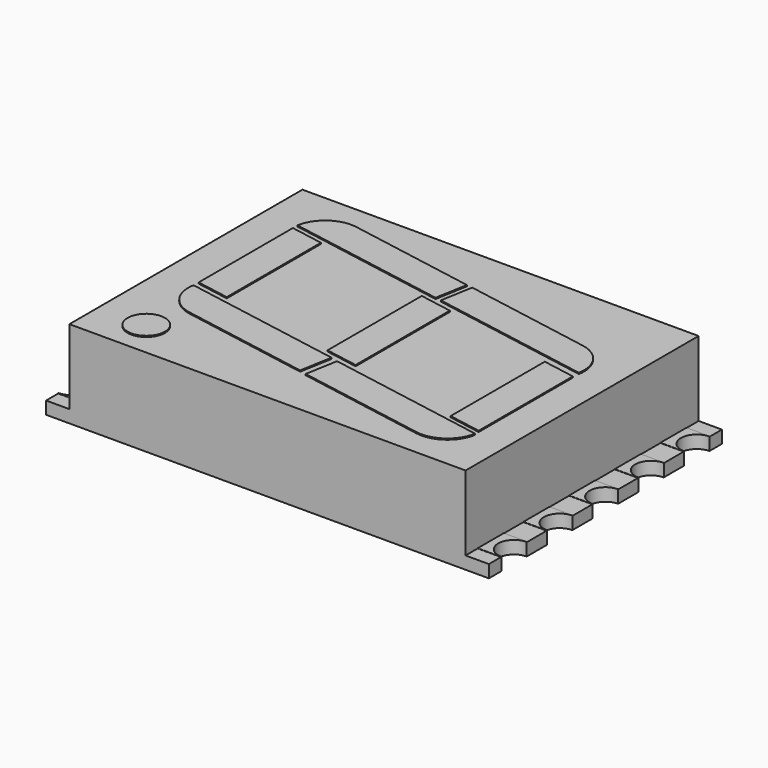
from build123d import *

# Parameters (mm, degrees)
BOX007_W               = 0.8
BOX007_H               = 1.5
BOX007_DEPTH           = 0.6
CYLINDER001_R          = 0.68
CYLINDER001_DEPTH      = 0.6
CYLINDER_R             = 0.7
CYLINDER_DEPTH         = 0.5
BOX006_W               = 1
BOX006_H               = 1.4
BOX006_DEPTH           = 0.05
BOX009_W               = 0.8
BOX009_H               = 1.5
BOX009_DEPTH           = 0.6
CYLINDER003_R          = 0.68
CYLINDER003_DEPTH      = 0.6
CYLINDER002_R          = 0.7
CYLINDER002_DEPTH      = 0.5
BOX008_W               = 1
BOX008_H               = 1.4
BOX008_DEPTH           = 0.05
BOX011_W               = 0.8
BOX011_H               = 1.5
BOX011_DEPTH           = 0.6
CYLINDER005_R          = 0.68
CYLINDER005_DEPTH      = 0.6
CYLINDER004_R          = 0.7
CYLINDER004_DEPTH      = 0.5
BOX010_W               = 1
BOX010_H               = 1.4
BOX010_DEPTH           = 0.05
BOX013_W               = 0.8
BOX013_H               = 1.5
BOX013_DEPTH           = 0.6
CYLINDER007_R          = 0.68
CYLINDER007_DEPTH      = 0.6
CYLINDER006_R          = 0.7
CYLINDER006_DEPTH      = 0.5
BOX012_W               = 1
BOX012_H               = 1.4
BOX012_DEPTH           = 0.05
BOX015_W               = 0.8
BOX015_H               = 1.5
BOX015_DEPTH           = 0.6
CYLINDER009_R          = 0.68
CYLINDER009_DEPTH      = 0.6
CYLINDER008_R          = 0.7
CYLINDER008_DEPTH      = 0.5
BOX014_W               = 1
BOX014_H               = 1.4
BOX014_DEPTH           = 0.05
BOX024_W               = 0.8
BOX024_H               = 1.5
BOX024_DEPTH           = 0.6
CYLINDER011_R          = 0.68
CYLINDER011_DEPTH      = 0.6
CYLINDER010_R          = 0.7
CYLINDER010_DEPTH      = 0.5
BOX023_W               = 1
BOX023_H               = 1.4
BOX023_DEPTH           = 0.05
CUT011_PLACEMENT_ANGLE = 180
BOX026_W               = 0.8
BOX026_H               = 1.5
BOX026_DEPTH           = 0.6
CYLINDER013_R          = 0.68
CYLINDER013_DEPTH      = 0.6
CYLINDER012_R          = 0.7
CYLINDER012_DEPTH      = 0.5
BOX025_W               = 1
BOX025_H               = 1.4
BOX025_DEPTH           = 0.05
CUT013_PLACEMENT_ANGLE = 180
BOX028_W               = 0.8
BOX028_H               = 1.5
BOX028_DEPTH           = 0.6
CYLINDER015_R          = 0.68
CYLINDER015_DEPTH      = 0.6
CYLINDER014_R          = 0.7
CYLINDER014_DEPTH      = 0.5
BOX027_W               = 1
BOX027_H               = 1.4
BOX027_DEPTH           = 0.05
CUT015_PLACEMENT_ANGLE = 180
BOX030_W               = 0.8
BOX030_H               = 1.5
BOX030_DEPTH           = 0.6
CYLINDER017_R          = 0.68
CYLINDER017_DEPTH      = 0.6
CYLINDER016_R          = 0.7
CYLINDER016_DEPTH      = 0.5
BOX029_W               = 1
BOX029_H               = 1.4
BOX029_DEPTH           = 0.05
CUT017_PLACEMENT_ANGLE = 180
BOX032_W               = 0.8
BOX032_H               = 1.5
BOX032_DEPTH           = 0.6
CYLINDER019_R          = 0.68
CYLINDER019_DEPTH      = 0.6
CYLINDER018_R          = 0.7
CYLINDER018_DEPTH      = 0.5
BOX031_W               = 1
BOX031_H               = 1.4
BOX031_DEPTH           = 0.05
CUT019_PLACEMENT_ANGLE = 180
CYLINDER020_R          = 0.8
CYLINDER020_DEPTH      = 1
BOX043_W               = 2
BOX043_H               = 2
BOX043_DEPTH           = 1
BOX043_PLACEMENT_ANGLE = -10
BOX042_W               = 2
BOX042_H               = 2
BOX042_DEPTH           = 1
BOX042_PLACEMENT_ANGLE = -10
BOX041_W               = 1.4
BOX041_H               = 5.3
BOX041_DEPTH           = 1
BOX046_W               = 2
BOX046_H               = 2
BOX046_DEPTH           = 1
BOX046_PLACEMENT_ANGLE = -10
BOX045_W               = 2
BOX045_H               = 2
BOX045_DEPTH           = 1
BOX045_PLACEMENT_ANGLE = -10
BOX044_W               = 1.4
BOX044_H               = 5.3
BOX044_DEPTH           = 1
BOX040_W               = 2
BOX040_H               = 2
BOX040_DEPTH           = 1
BOX040_PLACEMENT_ANGLE = -10
BOX039_W               = 2
BOX039_H               = 2
BOX039_DEPTH           = 1
BOX039_PLACEMENT_ANGLE = -10
BOX038_W               = 1.4
BOX038_H               = 5.3
BOX038_DEPTH           = 1
BOX035_W               = 7
BOX035_H               = 1.4
BOX035_DEPTH           = 1
BOX035_PLACEMENT_ANGLE = -10
FILLET001_R            = 1.39
BOX034_W               = 7
BOX034_H               = 1.4
BOX034_DEPTH           = 1
BOX034_PLACEMENT_ANGLE = -10
FILLET002_R            = 1.39
BOX037_W               = 7
BOX037_H               = 1.4
BOX037_DEPTH           = 1
BOX037_PLACEMENT_ANGLE = -10
FILLET003_R            = 1.39
BOX036_W               = 7
BOX036_H               = 1.4
BOX036_DEPTH           = 1
BOX036_PLACEMENT_ANGLE = -10
FILLET004_R            = 1.39
BOX047_W               = 1
BOX047_H               = 12.5
BOX047_DEPTH           = 3.25
BOX_W                  = 1
BOX_H                  = 12.5
BOX_DEPTH              = 3.25
PAD_DEPTH              = 3.75


with BuildPart() as kub007:
    # Box007 → Box007 (new body)
    with BuildSketch(Plane(origin=(-0.8, -0.75, 0), x_dir=(1, 0, 0), z_dir=(0, 0, 1))):
        with Locations((0.4, 0.75)):
            Rectangle(BOX007_W, BOX007_H)
    extrude(amount=BOX007_DEPTH)


with BuildPart() as cylinder001:
    # Cylinder001 → Cylinder001 (new body)
    with BuildSketch(Plane.XY):
        Circle(CYLINDER001_R)
    extrude(amount=CYLINDER001_DEPTH)


with BuildPart() as cylinder:
    # Cylinder → Cylinder (new body)
    with BuildSketch(Plane.XY):
        Circle(CYLINDER_R)
    extrude(amount=CYLINDER_DEPTH)


with BuildPart() as cut001:
    # Box006 → Box006 (new body)
    with BuildSketch(Plane(origin=(0, -0.7, 0.5), x_dir=(1, 0, 0), z_dir=(0, 0, 1))):
        with Locations((0.5, 0.7)):
            Rectangle(BOX006_W, BOX006_H)
    extrude(amount=BOX006_DEPTH)

    # Fusion: union Cylinder
    add(cylinder.part)

    # Cut: cut Cylinder001
    add(cylinder001.part, mode=Mode.SUBTRACT)

    # Cut001: cut Kub007
    add(kub007.part, mode=Mode.SUBTRACT)


with BuildPart() as kub009:
    # Box009 → Box009 (new body)
    with BuildSketch(Plane(origin=(-0.8, -0.75, 0), x_dir=(1, 0, 0), z_dir=(0, 0, 1))):
        with Locations((0.4, 0.75)):
            Rectangle(BOX009_W, BOX009_H)
    extrude(amount=BOX009_DEPTH)


with BuildPart() as cylinder003:
    # Cylinder003 → Cylinder003 (new body)
    with BuildSketch(Plane.XY):
        Circle(CYLINDER003_R)
    extrude(amount=CYLINDER003_DEPTH)


with BuildPart() as cylinder002:
    # Cylinder002 → Cylinder002 (new body)
    with BuildSketch(Plane.XY):
        Circle(CYLINDER002_R)
    extrude(amount=CYLINDER002_DEPTH)


with BuildPart() as cut003:
    # Box008 → Box008 (new body)
    with BuildSketch(Plane(origin=(0, -0.7, 0.5), x_dir=(1, 0, 0), z_dir=(0, 0, 1))):
        with Locations((0.5, 0.7)):
            Rectangle(BOX008_W, BOX008_H)
    extrude(amount=BOX008_DEPTH)

    # Fusion001: union Cylinder002
    add(cylinder002.part)

    # Cut002: cut Cylinder003
    add(cylinder003.part, mode=Mode.SUBTRACT)

    # Cut003: cut Kub009
    add(kub009.part, mode=Mode.SUBTRACT)


with BuildPart() as cut003_1:
    # Cut003 placement: moved
    add(cut003.part.moved(Location((0, -2.45, 0))))


with BuildPart() as kub011:
    # Box011 → Box011 (new body)
    with BuildSketch(Plane(origin=(-0.8, -0.75, 0), x_dir=(1, 0, 0), z_dir=(0, 0, 1))):
        with Locations((0.4, 0.75)):
            Rectangle(BOX011_W, BOX011_H)
    extrude(amount=BOX011_DEPTH)


with BuildPart() as cylinder005:
    # Cylinder005 → Cylinder005 (new body)
    with BuildSketch(Plane.XY):
        Circle(CYLINDER005_R)
    extrude(amount=CYLINDER005_DEPTH)


with BuildPart() as cylinder004:
    # Cylinder004 → Cylinder004 (new body)
    with BuildSketch(Plane.XY):
        Circle(CYLINDER004_R)
    extrude(amount=CYLINDER004_DEPTH)


with BuildPart() as cut005:
    # Box010 → Box010 (new body)
    with BuildSketch(Plane(origin=(0, -0.7, 0.5), x_dir=(1, 0, 0), z_dir=(0, 0, 1))):
        with Locations((0.5, 0.7)):
            Rectangle(BOX010_W, BOX010_H)
    extrude(amount=BOX010_DEPTH)

    # Fusion002: union Cylinder004
    add(cylinder004.part)

    # Cut004: cut Cylinder005
    add(cylinder005.part, mode=Mode.SUBTRACT)

    # Cut005: cut Kub011
    add(kub011.part, mode=Mode.SUBTRACT)


with BuildPart() as cut005_1:
    # Cut005 placement: moved
    add(cut005.part.moved(Location((0, -4.9, 0))))


with BuildPart() as kub013:
    # Box013 → Box013 (new body)
    with BuildSketch(Plane(origin=(-0.8, -0.75, 0), x_dir=(1, 0, 0), z_dir=(0, 0, 1))):
        with Locations((0.4, 0.75)):
            Rectangle(BOX013_W, BOX013_H)
    extrude(amount=BOX013_DEPTH)


with BuildPart() as cylinder007:
    # Cylinder007 → Cylinder007 (new body)
    with BuildSketch(Plane.XY):
        Circle(CYLINDER007_R)
    extrude(amount=CYLINDER007_DEPTH)


with BuildPart() as cylinder006:
    # Cylinder006 → Cylinder006 (new body)
    with BuildSketch(Plane.XY):
        Circle(CYLINDER006_R)
    extrude(amount=CYLINDER006_DEPTH)


with BuildPart() as cut007:
    # Box012 → Box012 (new body)
    with BuildSketch(Plane(origin=(0, -0.7, 0.5), x_dir=(1, 0, 0), z_dir=(0, 0, 1))):
        with Locations((0.5, 0.7)):
            Rectangle(BOX012_W, BOX012_H)
    extrude(amount=BOX012_DEPTH)

    # Fusion003: union Cylinder006
    add(cylinder006.part)

    # Cut006: cut Cylinder007
    add(cylinder007.part, mode=Mode.SUBTRACT)

    # Cut007: cut Kub013
    add(kub013.part, mode=Mode.SUBTRACT)


with BuildPart() as cut007_1:
    # Cut007 placement: moved
    add(cut007.part.moved(Location((0, -7.35, 0))))


with BuildPart() as kub015:
    # Box015 → Box015 (new body)
    with BuildSketch(Plane(origin=(-0.8, -0.75, 0), x_dir=(1, 0, 0), z_dir=(0, 0, 1))):
        with Locations((0.4, 0.75)):
            Rectangle(BOX015_W, BOX015_H)
    extrude(amount=BOX015_DEPTH)


with BuildPart() as cylinder009:
    # Cylinder009 → Cylinder009 (new body)
    with BuildSketch(Plane.XY):
        Circle(CYLINDER009_R)
    extrude(amount=CYLINDER009_DEPTH)


with BuildPart() as cylinder008:
    # Cylinder008 → Cylinder008 (new body)
    with BuildSketch(Plane.XY):
        Circle(CYLINDER008_R)
    extrude(amount=CYLINDER008_DEPTH)


with BuildPart() as cut009:
    # Box014 → Box014 (new body)
    with BuildSketch(Plane(origin=(0, -0.7, 0.5), x_dir=(1, 0, 0), z_dir=(0, 0, 1))):
        with Locations((0.5, 0.7)):
            Rectangle(BOX014_W, BOX014_H)
    extrude(amount=BOX014_DEPTH)

    # Fusion004: union Cylinder008
    add(cylinder008.part)

    # Cut008: cut Cylinder009
    add(cylinder009.part, mode=Mode.SUBTRACT)

    # Cut009: cut Kub015
    add(kub015.part, mode=Mode.SUBTRACT)


with BuildPart() as cut009_1:
    # Cut009 placement: moved
    add(cut009.part.moved(Location((0, -9.8, 0))))


with BuildPart() as kub024:
    # Box024 → Box024 (new body)
    with BuildSketch(Plane(origin=(-0.8, -0.75, 0), x_dir=(1, 0, 0), z_dir=(0, 0, 1))):
        with Locations((0.4, 0.75)):
            Rectangle(BOX024_W, BOX024_H)
    extrude(amount=BOX024_DEPTH)


with BuildPart() as cylinder011:
    # Cylinder011 → Cylinder011 (new body)
    with BuildSketch(Plane.XY):
        Circle(CYLINDER011_R)
    extrude(amount=CYLINDER011_DEPTH)


with BuildPart() as cylinder010:
    # Cylinder010 → Cylinder010 (new body)
    with BuildSketch(Plane.XY):
        Circle(CYLINDER010_R)
    extrude(amount=CYLINDER010_DEPTH)


with BuildPart() as cut011:
    # Box023 → Box023 (new body)
    with BuildSketch(Plane(origin=(0, -0.7, 0.5), x_dir=(1, 0, 0), z_dir=(0, 0, 1))):
        with Locations((0.5, 0.7)):
            Rectangle(BOX023_W, BOX023_H)
    extrude(amount=BOX023_DEPTH)

    # Fusion005: union Cylinder010
    add(cylinder010.part)

    # Cut010: cut Cylinder011
    add(cylinder011.part, mode=Mode.SUBTRACT)

    # Cut011: cut Kub024
    add(kub024.part, mode=Mode.SUBTRACT)


with BuildPart() as cut011_1:
    # Cut011 placement: moved
    add(cut011.part.moved(Location((19, 0, 0))).rotate(Axis((19, 0, 0), (0, 0, 1)), CUT011_PLACEMENT_ANGLE))


with BuildPart() as kub026:
    # Box026 → Box026 (new body)
    with BuildSketch(Plane(origin=(-0.8, -0.75, 0), x_dir=(1, 0, 0), z_dir=(0, 0, 1))):
        with Locations((0.4, 0.75)):
            Rectangle(BOX026_W, BOX026_H)
    extrude(amount=BOX026_DEPTH)


with BuildPart() as cylinder013:
    # Cylinder013 → Cylinder013 (new body)
    with BuildSketch(Plane.XY):
        Circle(CYLINDER013_R)
    extrude(amount=CYLINDER013_DEPTH)


with BuildPart() as cylinder012:
    # Cylinder012 → Cylinder012 (new body)
    with BuildSketch(Plane.XY):
        Circle(CYLINDER012_R)
    extrude(amount=CYLINDER012_DEPTH)


with BuildPart() as cut013:
    # Box025 → Box025 (new body)
    with BuildSketch(Plane(origin=(0, -0.7, 0.5), x_dir=(1, 0, 0), z_dir=(0, 0, 1))):
        with Locations((0.5, 0.7)):
            Rectangle(BOX025_W, BOX025_H)
    extrude(amount=BOX025_DEPTH)

    # Fusion006: union Cylinder012
    add(cylinder012.part)

    # Cut012: cut Cylinder013
    add(cylinder013.part, mode=Mode.SUBTRACT)

    # Cut013: cut Kub026
    add(kub026.part, mode=Mode.SUBTRACT)


with BuildPart() as cut013_1:
    # Cut013 placement: moved
    add(cut013.part.moved(Location((19, -2.45, 0))).rotate(Axis((19, -2.45, 0), (0, 0, 1)), CUT013_PLACEMENT_ANGLE))


with BuildPart() as kub028:
    # Box028 → Box028 (new body)
    with BuildSketch(Plane(origin=(-0.8, -0.75, 0), x_dir=(1, 0, 0), z_dir=(0, 0, 1))):
        with Locations((0.4, 0.75)):
            Rectangle(BOX028_W, BOX028_H)
    extrude(amount=BOX028_DEPTH)


with BuildPart() as cylinder015:
    # Cylinder015 → Cylinder015 (new body)
    with BuildSketch(Plane.XY):
        Circle(CYLINDER015_R)
    extrude(amount=CYLINDER015_DEPTH)


with BuildPart() as cylinder014:
    # Cylinder014 → Cylinder014 (new body)
    with BuildSketch(Plane.XY):
        Circle(CYLINDER014_R)
    extrude(amount=CYLINDER014_DEPTH)


with BuildPart() as cut015:
    # Box027 → Box027 (new body)
    with BuildSketch(Plane(origin=(0, -0.7, 0.5), x_dir=(1, 0, 0), z_dir=(0, 0, 1))):
        with Locations((0.5, 0.7)):
            Rectangle(BOX027_W, BOX027_H)
    extrude(amount=BOX027_DEPTH)

    # Fusion007: union Cylinder014
    add(cylinder014.part)

    # Cut014: cut Cylinder015
    add(cylinder015.part, mode=Mode.SUBTRACT)

    # Cut015: cut Kub028
    add(kub028.part, mode=Mode.SUBTRACT)


with BuildPart() as cut015_1:
    # Cut015 placement: moved
    add(cut015.part.moved(Location((19, -4.9, 0))).rotate(Axis((19, -4.9, 0), (0, 0, 1)), CUT015_PLACEMENT_ANGLE))


with BuildPart() as kub030:
    # Box030 → Box030 (new body)
    with BuildSketch(Plane(origin=(-0.8, -0.75, 0), x_dir=(1, 0, 0), z_dir=(0, 0, 1))):
        with Locations((0.4, 0.75)):
            Rectangle(BOX030_W, BOX030_H)
    extrude(amount=BOX030_DEPTH)


with BuildPart() as cylinder017:
    # Cylinder017 → Cylinder017 (new body)
    with BuildSketch(Plane.XY):
        Circle(CYLINDER017_R)
    extrude(amount=CYLINDER017_DEPTH)


with BuildPart() as cylinder016:
    # Cylinder016 → Cylinder016 (new body)
    with BuildSketch(Plane.XY):
        Circle(CYLINDER016_R)
    extrude(amount=CYLINDER016_DEPTH)


with BuildPart() as cut017:
    # Box029 → Box029 (new body)
    with BuildSketch(Plane(origin=(0, -0.7, 0.5), x_dir=(1, 0, 0), z_dir=(0, 0, 1))):
        with Locations((0.5, 0.7)):
            Rectangle(BOX029_W, BOX029_H)
    extrude(amount=BOX029_DEPTH)

    # Fusion008: union Cylinder016
    add(cylinder016.part)

    # Cut016: cut Cylinder017
    add(cylinder017.part, mode=Mode.SUBTRACT)

    # Cut017: cut Kub030
    add(kub030.part, mode=Mode.SUBTRACT)


with BuildPart() as cut017_1:
    # Cut017 placement: moved
    add(cut017.part.moved(Location((19, -7.35, 0))).rotate(Axis((19, -7.35, 0), (0, 0, 1)), CUT017_PLACEMENT_ANGLE))


with BuildPart() as kub032:
    # Box032 → Box032 (new body)
    with BuildSketch(Plane(origin=(-0.8, -0.75, 0), x_dir=(1, 0, 0), z_dir=(0, 0, 1))):
        with Locations((0.4, 0.75)):
            Rectangle(BOX032_W, BOX032_H)
    extrude(amount=BOX032_DEPTH)


with BuildPart() as cylinder019:
    # Cylinder019 → Cylinder019 (new body)
    with BuildSketch(Plane.XY):
        Circle(CYLINDER019_R)
    extrude(amount=CYLINDER019_DEPTH)


with BuildPart() as cylinder018:
    # Cylinder018 → Cylinder018 (new body)
    with BuildSketch(Plane.XY):
        Circle(CYLINDER018_R)
    extrude(amount=CYLINDER018_DEPTH)


with BuildPart() as cut019:
    # Box031 → Box031 (new body)
    with BuildSketch(Plane(origin=(0, -0.7, 0.5), x_dir=(1, 0, 0), z_dir=(0, 0, 1))):
        with Locations((0.5, 0.7)):
            Rectangle(BOX031_W, BOX031_H)
    extrude(amount=BOX031_DEPTH)

    # Fusion009: union Cylinder018
    add(cylinder018.part)

    # Cut018: cut Cylinder019
    add(cylinder019.part, mode=Mode.SUBTRACT)

    # Cut019: cut Kub032
    add(kub032.part, mode=Mode.SUBTRACT)


with BuildPart() as cut019_1:
    # Cut019 placement: moved
    add(cut019.part.moved(Location((19, -9.8, 0))).rotate(Axis((19, -9.8, 0), (0, 0, 1)), CUT019_PLACEMENT_ANGLE))


with BuildPart() as cylinder020:
    # Cylinder020 → Cylinder020 (new body)
    with BuildSketch(Plane(origin=(3.1, -9.65, 2.8), x_dir=(1, 0, 0), z_dir=(0, 0, 1))):
        Circle(CYLINDER020_R)
    extrude(amount=CYLINDER020_DEPTH)


with BuildPart() as kub043:
    # Box043 → Box043 (new body)
    with BuildSketch(Plane.XY):
        with Locations((1, 1)):
            Rectangle(BOX043_W, BOX043_H)
    extrude(amount=BOX043_DEPTH)


with BuildPart() as kub043_1:
    # Box043 placement: moved
    add(kub043.part.moved(Location((-1.62, -8.02, 3.3))).rotate(Axis((-1.62, -8.02, 3.3), (0, 0, 1)), BOX043_PLACEMENT_ANGLE))


with BuildPart() as kub042:
    # Box042 → Box042 (new body)
    with BuildSketch(Plane.XY):
        with Locations((1, 1)):
            Rectangle(BOX042_W, BOX042_H)
    extrude(amount=BOX042_DEPTH)


with BuildPart() as kub042_1:
    # Box042 placement: moved
    add(kub042.part.moved(Location((-0.7, -1.1, 3.3))).rotate(Axis((-0.7, -1.1, 3.3), (0, 0, 1)), BOX042_PLACEMENT_ANGLE))


with BuildPart() as cut021:
    # Box041 → Box041 (new body)
    with BuildSketch(Plane(origin=(-0.7, -6.4, 3.3), x_dir=(1, 0, 0), z_dir=(0, 0, 1))):
        with Locations((0.7, 2.65)):
            Rectangle(BOX041_W, BOX041_H)
    extrude(amount=BOX041_DEPTH)

    # Cut020: cut Kub042
    add(kub042_1.part, mode=Mode.SUBTRACT)

    # Cut021: cut Kub043
    add(kub043_1.part, mode=Mode.SUBTRACT)


with BuildPart() as cut021_1:
    # Cut021 placement: moved
    add(cut021.part.moved(Location((15.9, -2.3, -0.5))))


with BuildPart() as kub046:
    # Box046 → Box046 (new body)
    with BuildSketch(Plane.XY):
        with Locations((1, 1)):
            Rectangle(BOX046_W, BOX046_H)
    extrude(amount=BOX046_DEPTH)


with BuildPart() as kub046_1:
    # Box046 placement: moved
    add(kub046.part.moved(Location((-4.62, -8.02, 3.3))).rotate(Axis((-4.62, -8.02, 3.3), (0, 0, 1)), BOX046_PLACEMENT_ANGLE))


with BuildPart() as kub045:
    # Box045 → Box045 (new body)
    with BuildSketch(Plane.XY):
        with Locations((1, 1)):
            Rectangle(BOX045_W, BOX045_H)
    extrude(amount=BOX045_DEPTH)


with BuildPart() as kub045_1:
    # Box045 placement: moved
    add(kub045.part.moved(Location((-3.7, -1.1, 3.3))).rotate(Axis((-3.7, -1.1, 3.3), (0, 0, 1)), BOX045_PLACEMENT_ANGLE))


with BuildPart() as cut023:
    # Box044 → Box044 (new body)
    with BuildSketch(Plane(origin=(-3.7, -6.4, 3.3), x_dir=(1, 0, 0), z_dir=(0, 0, 1))):
        with Locations((0.7, 2.65)):
            Rectangle(BOX044_W, BOX044_H)
    extrude(amount=BOX044_DEPTH)

    # Cut022: cut Kub045
    add(kub045_1.part, mode=Mode.SUBTRACT)

    # Cut023: cut Kub046
    add(kub046_1.part, mode=Mode.SUBTRACT)


with BuildPart() as cut023_1:
    # Cut023 placement: moved
    add(cut023.part.moved(Location((12.7, -1.15, -0.5))))


with BuildPart() as kub040:
    # Box040 → Box040 (new body)
    with BuildSketch(Plane.XY):
        with Locations((1, 1)):
            Rectangle(BOX040_W, BOX040_H)
    extrude(amount=BOX040_DEPTH)


with BuildPart() as kub040_1:
    # Box040 placement: moved
    add(kub040.part.moved(Location((-4.62, -8.02, 3.3))).rotate(Axis((-4.62, -8.02, 3.3), (0, 0, 1)), BOX040_PLACEMENT_ANGLE))


with BuildPart() as kub039:
    # Box039 → Box039 (new body)
    with BuildSketch(Plane.XY):
        with Locations((1, 1)):
            Rectangle(BOX039_W, BOX039_H)
    extrude(amount=BOX039_DEPTH)


with BuildPart() as kub039_1:
    # Box039 placement: moved
    add(kub039.part.moved(Location((-3.7, -1.1, 3.3))).rotate(Axis((-3.7, -1.1, 3.3), (0, 0, 1)), BOX039_PLACEMENT_ANGLE))


with BuildPart() as cut025:
    # Box038 → Box038 (new body)
    with BuildSketch(Plane(origin=(-3.7, -6.4, 3.3), x_dir=(1, 0, 0), z_dir=(0, 0, 1))):
        with Locations((0.7, 2.65)):
            Rectangle(BOX038_W, BOX038_H)
    extrude(amount=BOX038_DEPTH)

    # Cut024: cut Kub039
    add(kub039_1.part, mode=Mode.SUBTRACT)

    # Cut025: cut Kub040
    add(kub040_1.part, mode=Mode.SUBTRACT)


with BuildPart() as cut025_1:
    # Cut025 placement: moved
    add(cut025.part.moved(Location((6.25, 0, -0.5))))


with BuildPart() as fillet001:
    # Box035 → Box035 (new body)
    with BuildSketch(Plane.XY):
        with Locations((3.5, 0.7)):
            Rectangle(BOX035_W, BOX035_H)
    extrude(amount=BOX035_DEPTH)


with BuildPart() as fillet001_1:
    # Box035 placement: moved
    add(fillet001.part.moved(Location((10, -2.5, 3.3))).rotate(Axis((10, -2.5, 3.3), (0, 0, 1)), BOX035_PLACEMENT_ANGLE))

    # Fillet001
    fillet001_edges = [fillet001_1.edges().sort_by_distance(p)[0] for p in [
        (17.136762, -2.336806, 3.8),
    ]]
    fillet(fillet001_edges, radius=FILLET001_R)


with BuildPart() as fillet001_2:
    # Fillet001 placement: moved
    add(fillet001_1.part.moved(Location((-0.3, 0.4, -0.5))))


with BuildPart() as fillet002:
    # Box034 → Box034 (new body)
    with BuildSketch(Plane.XY):
        with Locations((3.5, 0.7)):
            Rectangle(BOX034_W, BOX034_H)
    extrude(amount=BOX034_DEPTH)


with BuildPart() as fillet002_1:
    # Box034 placement: moved
    add(fillet002.part.moved(Location((3.3, -1, 3.3))).rotate(Axis((3.3, -1, 3.3), (0, 0, 1)), BOX034_PLACEMENT_ANGLE))

    # Fillet002
    fillet002_edges = [fillet002_1.edges().sort_by_distance(p)[0] for p in [
        (3.543107, 0.378731, 3.8),
    ]]
    fillet(fillet002_edges, radius=FILLET002_R)


with BuildPart() as fillet002_2:
    # Fillet002 placement: moved
    add(fillet002_1.part.moved(Location((-0.75, 0.15, -0.5))))


with BuildPart() as fillet003:
    # Box037 → Box037 (new body)
    with BuildSketch(Plane.XY):
        with Locations((3.5, 0.7)):
            Rectangle(BOX037_W, BOX037_H)
    extrude(amount=BOX037_DEPTH)


with BuildPart() as fillet003_1:
    # Box037 placement: moved
    add(fillet003.part.moved(Location((10.3, -8.5, 3.3))).rotate(Axis((10.3, -8.5, 3.3), (0, 0, 1)), BOX037_PLACEMENT_ANGLE))

    # Fillet003
    fillet003_edges = [fillet003_1.edges().sort_by_distance(p)[0] for p in [
        (17.193654, -9.715537, 3.8),
    ]]
    fillet(fillet003_edges, radius=FILLET003_R)


with BuildPart() as fillet003_2:
    # Fillet003 placement: moved
    add(fillet003_1.part.moved(Location((-0.8, -0.6, -0.5))))


with BuildPart() as fillet004:
    # Box036 → Box036 (new body)
    with BuildSketch(Plane.XY):
        with Locations((3.5, 0.7)):
            Rectangle(BOX036_W, BOX036_H)
    extrude(amount=BOX036_DEPTH)


with BuildPart() as fillet004_1:
    # Box036 placement: moved
    add(fillet004.part.moved(Location((2.3, -7, 3.3))).rotate(Axis((2.3, -7, 3.3), (0, 0, 1)), BOX036_PLACEMENT_ANGLE))

    # Fillet004
    fillet004_edges = [fillet004_1.edges().sort_by_distance(p)[0] for p in [
        (2.3, -7, 3.8),
    ]]
    fillet(fillet004_edges, radius=FILLET004_R)


with BuildPart() as fillet004_2:
    # Fillet004 placement: moved
    add(fillet004_1.part.moved(Location((0, -0.8, -0.5))))


with BuildPart() as kub048:
    # Box047 → Box047 (new body)
    with BuildSketch(Plane(origin=(18, -11.15, 0.54), x_dir=(1, 0, 0), z_dir=(0, 0, 1))):
        with Locations((0.5, 6.25)):
            Rectangle(BOX047_W, BOX047_H)
    extrude(amount=BOX047_DEPTH)


with BuildPart() as kub047:
    # Box → Box (new body)
    with BuildSketch(Plane(origin=(0, -11.15, 0.54), x_dir=(1, 0, 0), z_dir=(0, 0, 1))):
        with Locations((0.5, 6.25)):
            Rectangle(BOX_W, BOX_H)
    extrude(amount=BOX_DEPTH)


with BuildPart() as cut027:
    # Sketch → Pad (new body)
    with BuildSketch(Plane.XY):
        with BuildLine():
            Line((0, 1.35), (19, 1.35))
            Line((19, 1.35), (19, 0.7))
            ThreePointArc((19, 0.7), (18.3, 0), (19, -0.7))
            Line((19, -0.7), (19, -1.75))
            ThreePointArc((19, -1.75), (18.3, -2.45), (19, -3.15))
            Line((19, -3.15), (19, -4.2))
            ThreePointArc((19, -4.2), (18.3, -4.9), (19, -5.6))
            Line((19, -5.6), (19, -6.65))
            ThreePointArc((19, -6.65), (18.3, -7.35), (19, -8.05))
            Line((19, -8.05), (19, -9.1))
            ThreePointArc((19, -9.1), (18.3, -9.8), (19, -10.5))
            Line((19, -10.5), (19, -11.15))
            Line((0, -11.15), (19, -11.15))
            Line((0, -10.5), (0, -11.15))
            ThreePointArc((0, -10.5), (0.7, -9.8), (0, -9.1))
            Line((0, -8.05), (0, -9.1))
            ThreePointArc((0, -8.05), (0.7, -7.35), (0, -6.65))
            Line((0, -5.6), (0, -6.65))
            ThreePointArc((0, -5.6), (0.7, -4.9), (0, -4.2))
            Line((0, -3.15), (0, -4.2))
            ThreePointArc((0, -3.15), (0.7, -2.45), (0, -1.75))
            Line((0, -0.7), (0, -1.75))
            ThreePointArc((0, -0.7), (0.7, 0), (0, 0.7))
            Line((0, 1.35), (0, 0.7))
        make_face()
    extrude(amount=PAD_DEPTH)

    # Cut026: cut Kub047
    add(kub047.part, mode=Mode.SUBTRACT)

    # Cut027: cut Kub048
    add(kub048.part, mode=Mode.SUBTRACT)


solid = Compound([cut001.part, cut003_1.part, cut005_1.part, cut007_1.part, cut009_1.part, cut011_1.part, cut013_1.part, cut015_1.part, cut017_1.part, cut019_1.part, cylinder020.part, cut021_1.part, cut023_1.part, cut025_1.part, fillet001_2.part, fillet002_2.part, fillet003_2.part, fillet004_2.part, cut027.part])
